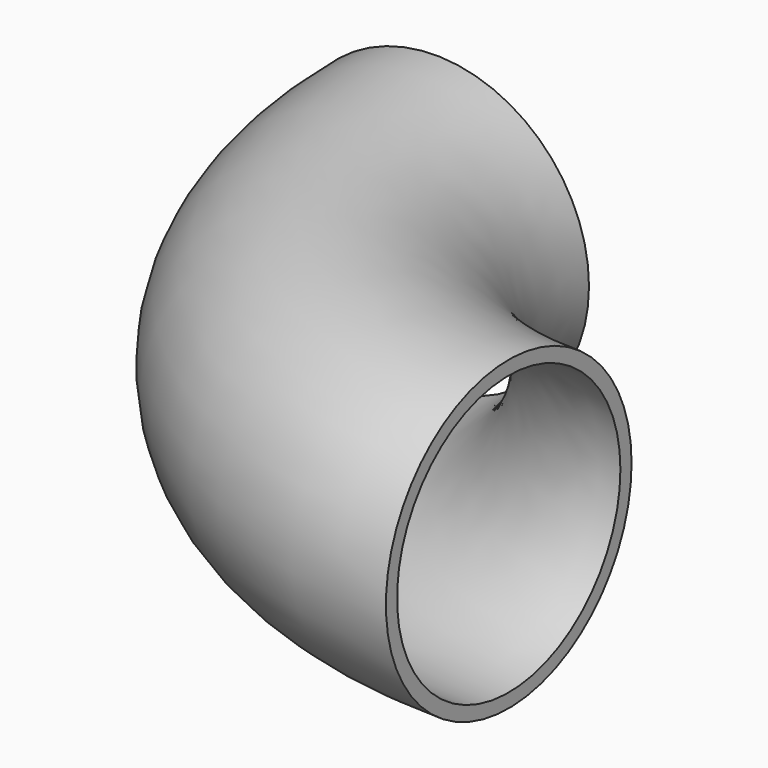
from build123d import *

# Parameters (mm, degrees)
F0_R     = 69.85
F0_R_2   = 63.5
F1_ANGLE = 90


with BuildPart() as f1:
    # F0 (on Right) → F1 (revolve)
    with BuildSketch(Plane.YZ):
        Circle(F0_R)
        Circle(F0_R_2, mode=Mode.SUBTRACT)
    revolve(axis=Axis((0, 166.6875, -4.148822), (0, 0, -1)), revolution_arc=F1_ANGLE)


solid = f1.part
